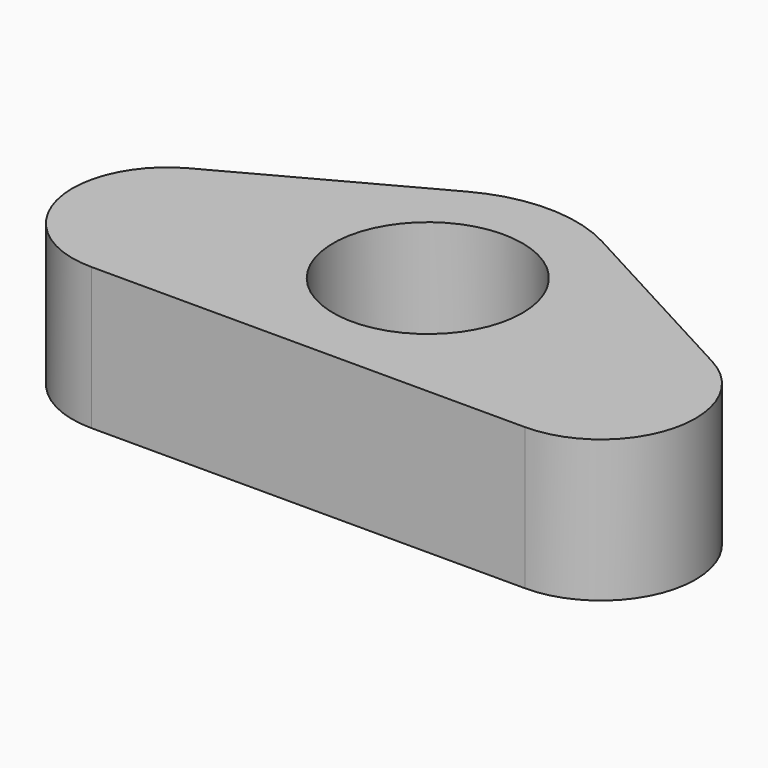
from build123d import *

# Parameters (mm, degrees)
F1_DEPTH = 6
F2_R     = 4
F3_R     = 6
F4_R     = 4
F5_DEPTH = 6.001


with BuildPart() as f1:
    # F0 (on Top) → F1 (new body)
    with BuildSketch(Plane.XY):
        Polygon((0, 13.5), (-25, 0), (25, 0), align=None)
    extrude(amount=F1_DEPTH)

    # F2
    f2_edges = [f1.edges().sort_by_distance(p)[0] for p in [
        (25, 0, 3),
        (-25, 0, 3),
    ]]
    fillet(f2_edges, radius=F2_R)

    # F3
    f3_edges = [f1.edges().sort_by_distance(p)[0] for p in [
        (0, 13.5, 3),
    ]]
    fillet(f3_edges, radius=F3_R)

    # F4 (on Top) → F5 (cut, through all)
    with BuildSketch(Plane.XY):
        with Locations((0, 6.318788)):
            Circle(F4_R)
    extrude(amount=F5_DEPTH, mode=Mode.SUBTRACT)


solid = f1.part
